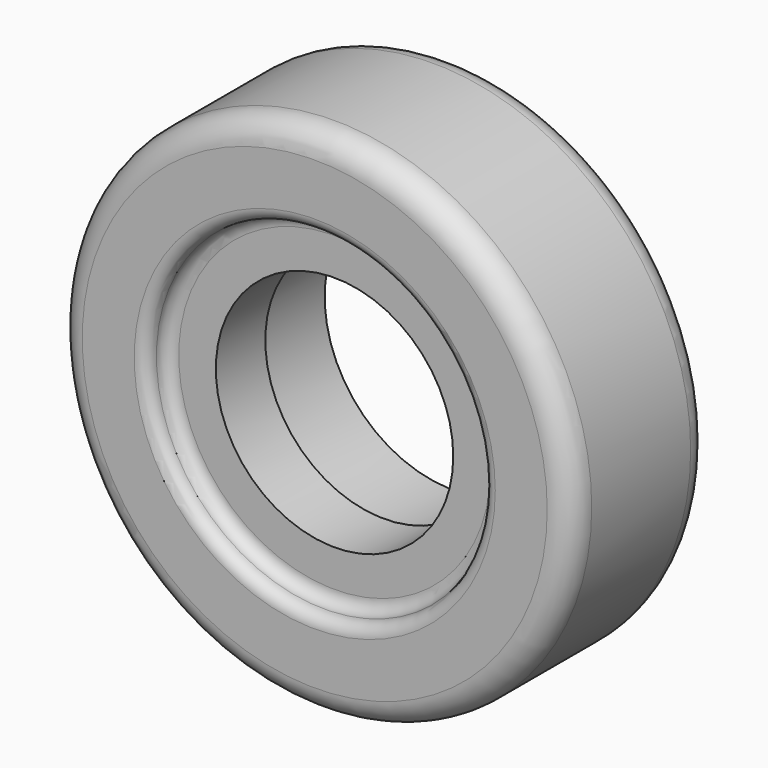
from build123d import *

# Parameters (mm, degrees)
F2_SCALE = 40


with BuildPart() as f1:
    # F0 (on Top) → F1 (revolve)
    with BuildSketch(Plane.XY):
        with BuildLine():
            Line((9.4, 0), (5.2, 0))
            Line((5.2, 0), (5.2, -3.5))
            Line((5.2, -3.5), (4.8, -3.5))
            Line((4.8, -3.5), (4.8, -6))
            Line((4.8, -6), (6.3, -6))
            ThreePointArc((6.3, -6), (6.6535533906, -6.1464466094), (6.8, -6.5))
            ThreePointArc((6.8, -6.5), (6.9464466094, -6.8535533906), (7.3, -7))
            Line((7.3, -7), (9.4, -7))
            ThreePointArc((9.4, -7), (10.1071067812, -6.7071067812), (10.4, -6))
            Line((10.4, -6), (10.4, -1))
            ThreePointArc((10.4, -1), (10.1071067812, -0.2928932188), (9.4, 0))
        make_face()
    revolve(axis=Axis((0, 3.2675411378, 0), (0, 1, 0)))


with BuildPart() as f1_1:
    # F2: moved
    add(f1.part.scale(F2_SCALE))


solid = f1_1.part
